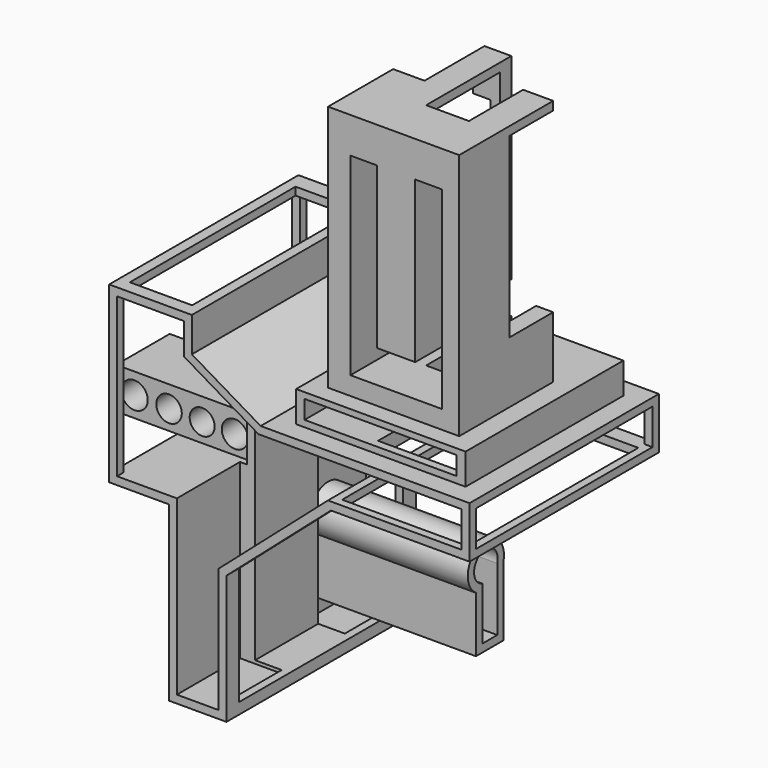
from build123d import *

# Parameters (mm, degrees)
F1_DEPTH       = 38.1
F3_DEPTH       = 25.4
F4_W           = 71.12
F4_H           = 11.5075405073
F5_DEPTH       = 166.5568947792
F6_W           = 71.12
F6_H           = 51.0108690095
F7_DEPTH       = 24.13
F9_DEPTH       = 69.85
F11_DEPTH      = 25.4
F13_DEPTH      = 69.9950531125
F14_W          = 54.5549456358
F14_H          = 63.5
F15_DEPTH      = 9.9698379636
F17_DEPTH      = 79.6777680516
F19_DEPTH      = 169.2734211683
F20_W          = 25.5475714803
F20_H          = 57.1575462818
F21_DEPTH      = 79.7184870968
F21_DEPTH_BACK = 25.4
F22_W          = 28.8064163178
F22_H          = 50.0078629702
F23_DEPTH      = 6.35
F24_W          = 48.9942021668
F24_H          = 5.9489458799
F25_DEPTH      = 69.851
F26_W          = 20.0615301728
F26_H          = 66.6889064014
F27_DEPTH      = 25.4
F29_DEPTH      = 50.8
F31_DEPTH      = 86.3181352615
F32_W          = 21.5430464596
F32_H          = 13.2329052007
F33_DEPTH      = 43.8010953367
F34_R          = 4.2353424769
F34_R_2        = 4.016178265
F34_R_3        = 4.1045612078
F34_R_4        = 4.2518599003
F35_DEPTH      = 25.4


with BuildPart() as f1:
    # F0 (on Front) → F1 (new body, symmetric)
    with BuildSketch(Plane.XZ):
        Polygon((-22.1669822931, 56.0908690095), (-48.7866848707, 56.0908690095), (-48.7866848707, 0), (-29.5187681913, 0), (-29.5187681913, -55.6436777115), (-11.0080987215, -55.6436777115), (-11.0080987215, -14.1748189926), (22.619381547, 15.2303725481), (67.2549456358, 15.2303725481), (67.2549456358, 31.8179130554), (0, 31.8179130554), (-22.1669822931, 44.9371486902), align=None)
    extrude(amount=F1_DEPTH, both=True)

    # F2 (on face) → F3 (cut)
    with BuildSketch(Plane.XZ.offset(38.1)):
        Polygon((64.7149456358, 17.7703725481), (64.7149456358, 29.2779130554), (-0.6953087103, 29.2779130554), (-24.7069822931, 43.4889048609), (-24.7069822931, 53.5508690095), (-46.2466848707, 53.5508690095), (-46.2466848707, 2.54), (-26.9787681913, 2.54), (-26.9787681913, -53.1036777115), (-13.5480987215, -53.1036777115), (-13.5480987215, -13.0217612085), (21.665474667, 17.7703725481), align=None)
    extrude(amount=-F3_DEPTH, mode=Mode.SUBTRACT)

    # F4 (on face) → F5 (cut)
    with BuildSketch(Plane.YZ.offset(67.2549456358)):
        with Locations((0, 23.5241428018)):
            Rectangle(F4_W, F4_H)
    extrude(amount=-F5_DEPTH, mode=Mode.SUBTRACT)

    # F6 (on face) → F7 (cut)
    with BuildSketch(Plane(origin=(-48.7866848707, 0, 0), x_dir=(0, -1, 0), z_dir=(-1, 0, 0))):
        with Locations((0, 28.0454345047)):
            Rectangle(F6_W, F6_H)
    extrude(amount=-F7_DEPTH, mode=Mode.SUBTRACT)

    # F8 (on face) → F9 (cut)
    with BuildSketch(Plane.XY.offset(17.7703725481)):
        Polygon((-22.1166848707, -33.02), (24.205474667, -33.02), (24.205474667, -35.56), (64.7149456358, -35.56), (64.7149456358, 33.02), (-22.1166848707, 33.02), align=None)
    extrude(amount=-F9_DEPTH, mode=Mode.SUBTRACT)

    # F10 (on face) → F11 (cut)
    with BuildSketch(Plane(origin=(0, 38.1, 0), x_dir=(-1, 0, 0), z_dir=(0, 1, 0))):
        Polygon((-64.7149456358, 17.7703725481), (-21.665474667, 17.7703725481), (13.5480987215, -13.0217612085), (13.5480987215, -53.1036777115), (26.9787681913, -53.1036777115), (26.9787681913, 2.54), (46.2466848707, 2.54), (46.2466848707, 53.5508690095), (24.7069822931, 53.5508690095), (24.7069822931, 43.4889048609), (0.6953087103, 29.2779130554), (-64.7149456358, 29.2779130554), align=None)
    extrude(amount=-F11_DEPTH, mode=Mode.SUBTRACT)

    # F12 (on face) → F13 (join)
    with BuildSketch(Plane(origin=(0, -33.02, 0), x_dir=(-1, 0, 0), z_dir=(0, 1, 0))):
        Polygon((-21.665474667, 17.7703725481), (-24.205474667, 17.7703725481), (-24.205474667, 15.2303725481), (-22.619381547, 15.2303725481), (-22.6041972144, 15.2170947704), (-22.5458946079, 15.2166113257), (-20.4890360799, 13.3675146709), (-20.4890360799, 16.7416483703), align=None)
    extrude(amount=F13_DEPTH)

    # F14 (on face) → F15 (join)
    with BuildSketch(Plane.XY.offset(31.8179130554)):
        with Locations((33.6274728179, 0)):
            Rectangle(F14_W, F14_H)
    extrude(amount=F15_DEPTH)

    # F16 (on face) → F17 (join)
    with BuildSketch(Plane.XY.offset(41.787751019)):
        Polygon((12.1729150414, -26.1881239712), (54.4057376683, -26.1881239712), (54.4057376683, 11.6354003549), (44.7186082602, 11.6354003549), (44.7186082602, -10.164026171), (30.9308022261, -10.164026171), (30.9308022261, 24.1416729987), (22.2798474133, 24.1416729987), (22.2798474133, 0), (12.1729150414, 0), align=None)
    extrude(amount=F17_DEPTH)

    # F18 (on face) → F19 (cut)
    with BuildSketch(Plane.XZ.offset(26.1881239712)):
        Polygon((27.9768835753, 109.9416464567), (19.3683411926, 109.9416464567), (19.3683411926, 47.6811267436), (48.9032641053, 47.6811267436), (48.9032641053, 109.9416464567), (40.2469709516, 109.9416464567), (40.2469709516, 58.1681281328), (27.9768835753, 58.1681281328), align=None)
    extrude(amount=-F19_DEPTH, mode=Mode.SUBTRACT)

    # F20 (on face) → F21 (cut, two sides)
    with BuildSketch(Plane.YZ.offset(30.9308022261)) as f21_sk:
        with Locations((6.7332647741, 90.1354327798)):
            Rectangle(F20_W, F20_H)
    extrude(amount=-F21_DEPTH, mode=Mode.SUBTRACT)
    extrude(f21_sk.sketch, amount=F21_DEPTH_BACK, mode=Mode.SUBTRACT)

    # F22 (on face) → F23 (cut)
    with BuildSketch(Plane(origin=(0, 0, 29.2779130554), x_dir=(1, 0, 0), z_dir=(0, 0, -1))):
        with Locations((45.0015263632, 4.0960470214)):
            Rectangle(F22_W, F22_H)
    extrude(amount=-F23_DEPTH, mode=Mode.SUBTRACT)

    # F24 (on face) → F25 (cut, through all)
    with BuildSketch(Plane(origin=(0, 31.75, 0), x_dir=(-1, 0, 0), z_dir=(0, 1, 0))):
        with Locations((-33.5451457649, 36.8936993182)):
            Rectangle(F24_W, F24_H)
    extrude(amount=-F25_DEPTH, mode=Mode.SUBTRACT)

    # F26 (on face) → F27 (cut)
    with BuildSketch(Plane.XY.offset(56.0908690095)):
        with Locations((-35.4243777692, -0.5888808519)):
            Rectangle(F26_W, F26_H)
    extrude(amount=-F27_DEPTH, mode=Mode.SUBTRACT)

    # F28 (on face) → F29 (join)
    with BuildSketch(Plane.YZ.offset(-26.9787681913)):
        with BuildLine():
            Line((29.8926215619, -48.8248394649), (29.8926215619, -26.276535997))
            ThreePointArc((29.8926215619, -26.276535997), (20.0002810954, -18.0048741229), (18.7791224223, -30.8418348831))
            Line((18.7791224223, -30.8418348831), (18.7791224223, -48.8248394649))
            Line((18.7791224223, -48.8248394649), (29.8926215619, -48.8248394649))
        make_face()
    extrude(amount=F29_DEPTH)

    # F30 (on face) → F31 (cut)
    with BuildSketch(Plane.YZ.offset(23.8212318087)):
        with BuildLine():
            Line((21.3191224223, -46.2848394649), (27.3526215619, -46.2848394649))
            Line((27.3526215619, -46.2848394649), (27.3526215619, -25.9773227743))
            ThreePointArc((27.3526215619, -25.9773227743), (20.4981967379, -20.5767900682), (21.3191224223, -29.2644234743))
            Line((21.3191224223, -29.2644234743), (21.3191224223, -46.2848394649))
        make_face()
    extrude(amount=-F31_DEPTH, mode=Mode.SUBTRACT)

    # F32 (on face) → F33 (join)
    with BuildSketch(Plane(origin=(-24.6566848707, 0, 0), x_dir=(0, -1, 0), z_dir=(-1, 0, 0))):
        with Locations((-0.0923750922, 9.1564526004)):
            Rectangle(F32_W, F32_H)
    extrude(amount=F33_DEPTH)

    # F34 (on face) → F35 (cut)
    with BuildSketch(Plane(origin=(0, 10.863898322, 0), x_dir=(-1, 0, 0), z_dir=(0, 1, 0))):
        with Locations((30.2229300141, 8.5582211614)):
            Circle(F34_R)
        with Locations((40.7767370343, 8.5658058524)):
            Circle(F34_R_2)
        with Locations((51.4430738986, 8.8405385613)):
            Circle(F34_R_3)
        with Locations((62.559530139, 9.0516358614)):
            Circle(F34_R_4)
    extrude(amount=-F35_DEPTH, mode=Mode.SUBTRACT)


solid = f1.part
